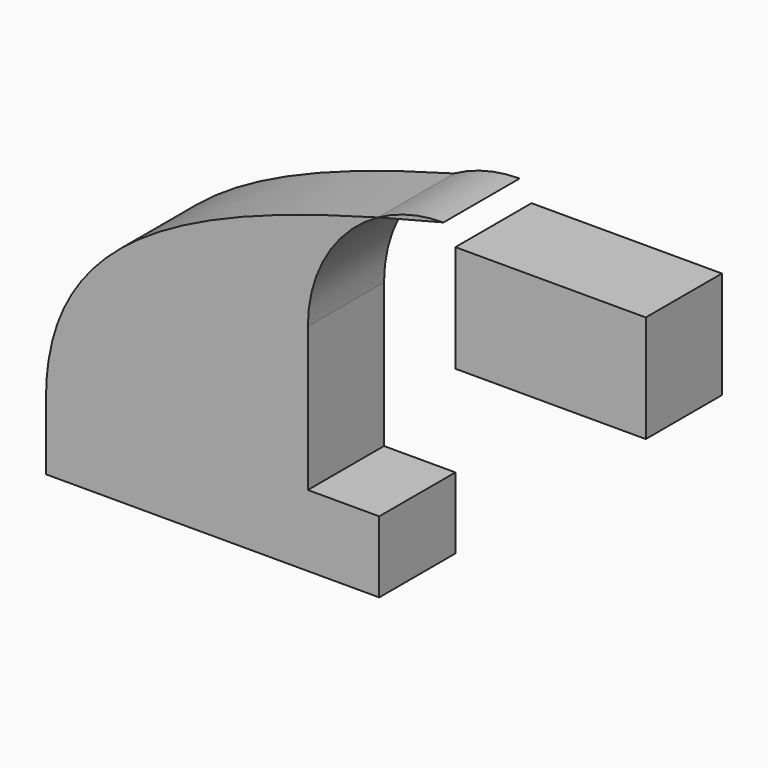
from build123d import *

# Parameters (mm, degrees)
F1_DEPTH = 25.4


with BuildPart() as f1:
    # F0 (on Front) → F1 (new body)
    with BuildSketch(Plane.XZ):
        Polygon((-44.45, 9.525), (-44.45, -9.525), (44.45, -9.525), (44.45, 9.525), (25.4, 9.525), align=None)
        with BuildLine():
            ThreePointArc((61.595, 84.1375), (52.575049, 82.995581), (44.124239, 79.641878))
            add(Edge.make_bspline(
                [(61.595, 84.1375), (55.594525, 82.658599), (49.763145, 81.167864), (44.124239, 79.641878)],
                knots=[0, 0, 0, 0, 12.631566, 12.631566, 12.631566, 12.631566], degree=3))
        make_face()
        Polygon((64.77, 79.375), (64.77, 65.0875), (64.77, 50.8), (115.57, 50.8), (115.57, 79.375), align=None)
        with BuildLine():
            add(Edge.make_bspline(
                [(44.124239, 79.641878), (-8.120342, 65.503581), (-43.842862, 48.339274), (-44.45, 9.525)],
                knots=[12.631566, 12.631566, 12.631566, 12.631566, 129.663284, 129.663284, 129.663284, 129.663284], degree=3))
            Line((-44.45, 9.525), (25.4, 9.525))
            Line((25.4, 9.525), (25.4, 47.9425))
            ThreePointArc((25.4, 47.9425), (30.43066, 66.350703), (44.124239, 79.641878))
        make_face()
    extrude(amount=F1_DEPTH)


solid = f1.part
